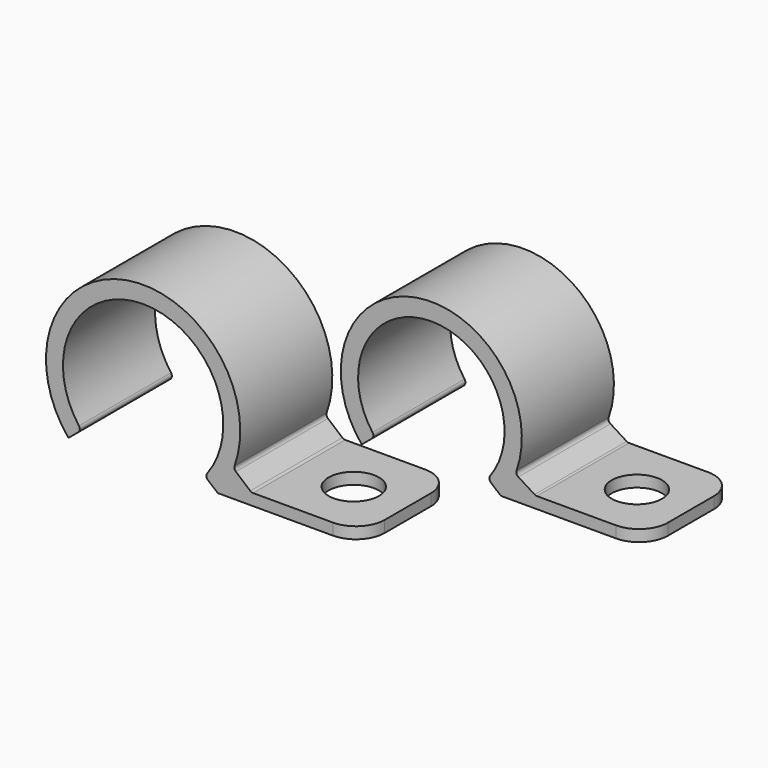
from build123d import *

# Parameters (mm, degrees)
F1_DEPTH = 8
F4_DEPTH = 25
F5_R     = 2


with BuildPart() as f1:
    # F0 (on Front) → F1 (new body)
    with BuildSketch(Plane.XZ):
        with BuildLine():
            ThreePointArc((27.39914, 10.077377), (31.859929, 18.982982), (36.320718, 10.077377))
            ThreePointArc((36.320718, 10.077377), (36.263054, 9.862473), (36.369276, 9.666959))
            Line((36.369276, 9.666959), (37.052079, 9.099738))
            Line((37.052079, 9.099738), (47.052079, 9.099738))
            Line((47.052079, 9.099738), (47.052079, 9.899738))
            Line((47.052079, 9.899738), (39.502488, 9.899738))
            ThreePointArc((39.502488, 9.899738), (39.399167, 9.918092), (39.308488, 9.970907))
            Line((39.308488, 9.970907), (38.307535, 10.819503))
            ThreePointArc((38.307535, 10.819503), (38.211834, 10.970406), (38.218914, 11.148958))
            ThreePointArc((38.218914, 11.148958), (30.680861, 20.059207), (26.667779, 9.099738))
            Line((26.667779, 9.099738), (27.350582, 9.666959))
            ThreePointArc((27.350582, 9.666959), (27.456804, 9.862473), (27.39914, 10.077377))
        make_face()
        with BuildLine():
            ThreePointArc((47.800167, 16.317188), (51.890394, 24.436733), (55.980621, 16.317188))
            ThreePointArc((55.980621, 16.317188), (55.923854, 16.102702), (56.029995, 15.907867))
            Line((56.029995, 15.907867), (56.728709, 15.327428))
            Line((56.728709, 15.327428), (66.728709, 15.327428))
            Line((66.728709, 15.327428), (66.728709, 16.127428))
            Line((66.728709, 16.127428), (59.228709, 16.127428))
            ThreePointArc((59.228709, 16.127428), (59.14576, 16.139124), (59.069279, 16.173298))
            Line((59.069279, 16.173298), (57.939218, 16.882244))
            ThreePointArc((57.939218, 16.882244), (57.815249, 17.037961), (57.816026, 17.236998))
            ThreePointArc((57.816026, 17.236998), (50.791677, 25.54003), (47.052079, 15.327428))
            Line((47.052079, 15.327428), (47.750793, 15.907867))
            ThreePointArc((47.750793, 15.907867), (47.856934, 16.102702), (47.800167, 16.317188))
        make_face()
    extrude(amount=F1_DEPTH)

    # F2 (on face) + F3 (on face) → F4 (cut)
    with BuildSketch(Plane(origin=(0, 0, 9.099738), x_dir=(1, 0, 0), z_dir=(0, 0, -1))):
        with BuildLine():
            ThreePointArc((41.552079, 4), (43.302079, 2.25), (45.052079, 4))
            Line((45.052079, 4), (41.552079, 4))
        make_face()
        with BuildLine():
            Line((41.552079, 4), (45.052079, 4))
            ThreePointArc((45.052079, 4), (43.302079, 5.75), (41.552079, 4))
        make_face()
    with BuildSketch(Plane(origin=(0, 0, 15.327428), x_dir=(1, 0, 0), z_dir=(0, 0, -1))):
        with BuildLine():
            ThreePointArc((61.228709, 4), (62.978709, 2.25), (64.728709, 4))
            Line((64.728709, 4), (61.228709, 4))
        make_face()
        with BuildLine():
            Line((61.228709, 4), (64.728709, 4))
            ThreePointArc((64.728709, 4), (62.978709, 5.75), (61.228709, 4))
        make_face()
    extrude(amount=-F4_DEPTH, mode=Mode.SUBTRACT)

    # F5
    f5_edges = [f1.edges().sort_by_distance(p)[0] for p in [
        (47.052079, -8, 9.499738),
        (47.052079, 0, 9.499738),
        (66.728709, -8, 15.727428),
        (66.728709, 0, 15.727428),
    ]]
    fillet(f5_edges, radius=F5_R)


solid = f1.part
